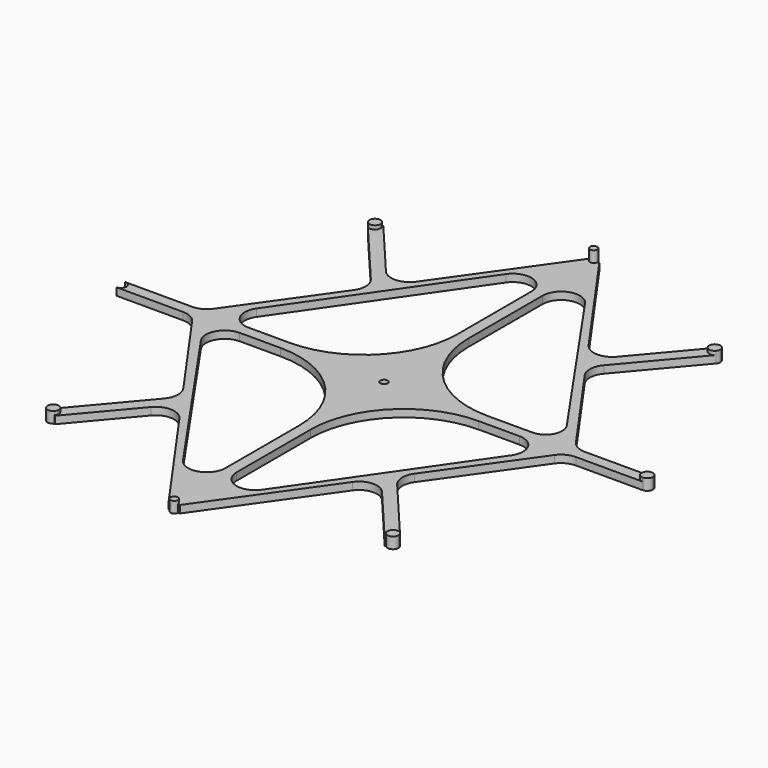
from build123d import *

# Parameters (mm, degrees)
F0_R     = 1
F1_DEPTH = 2
F2_DEPTH = 3
F3_DEPTH = 5


with BuildPart() as f1:
    # F0 (on Top) → F1 (new body)
    with BuildSketch(Plane.XY):
        with BuildLine():
            Line((1, -35.1), (1.5, -35.1))
            Line((1.5, -35.1), (23.193478, -4.3713))
            ThreePointArc((23.193478, -4.3713), (26.906428, -2.344127), (30.781196, -4.041655))
            Line((30.781196, -4.041655), (44.164128, -19.880392))
            Line((44.164128, -19.880392), (44.35536, -19.718811))
            ThreePointArc((44.35536, -19.718811), (44.533011, -17.604942), (46.64688, -17.782593))
            Line((46.64688, -17.782593), (31.206023, 0.491704))
            ThreePointArc((31.206023, 0.491704), (30.029934, 3.501716), (30.940547, 6.602383))
            Line((30.940547, 6.602383), (48.505924, 31.483649))
            ThreePointArc((48.505924, 31.483649), (50.290408, 33.039496), (52.590599, 33.6))
            Line((52.590599, 33.6), (70.5, 33.6))
            ThreePointArc((70.5, 33.6), (69, 35.1), (70.5, 36.6))
            Line((70.5, 36.6), (52.590599, 36.6))
            ThreePointArc((52.590599, 36.6), (50.290408, 37.160504), (48.505924, 38.716351))
            Line((48.505924, 38.716351), (30.940547, 63.597617))
            ThreePointArc((30.940547, 63.597617), (30.029934, 66.698284), (31.206023, 69.708296))
            Line((31.206023, 69.708296), (46.64688, 87.982593))
            ThreePointArc((46.64688, 87.982593), (44.533011, 87.804942), (44.35536, 89.918811))
            Line((44.35536, 89.918811), (44.164128, 90.080392))
            Line((44.164128, 90.080392), (30.948157, 74.439253))
            ThreePointArc((30.948157, 74.439253), (26.91194, 72.670995), (23.044283, 74.782634))
            Line((23.044283, 74.782634), (1.5, 105.3))
            Line((1.5, 105.3), (1, 105.3))
            ThreePointArc((1, 105.3), (0, 104.3), (-1, 105.3))
            Line((-1, 105.3), (-1.5, 105.3))
            Line((-1.5, 105.3), (-23.044283, 74.782634))
            ThreePointArc((-23.044283, 74.782634), (-26.91194, 72.670995), (-30.948157, 74.439253))
            Line((-30.948157, 74.439253), (-44.164128, 90.080392))
            Line((-44.164128, 90.080392), (-44.35536, 89.918811))
            ThreePointArc((-44.35536, 89.918811), (-44.092461, 89.466144), (-44.00112, 88.950702))
            ThreePointArc((-44.00112, 88.950702), (-44.985678, 87.542043), (-46.64688, 87.982593))
            Line((-46.64688, 87.982593), (-31.206023, 69.708296))
            ThreePointArc((-31.206023, 69.708296), (-30.029934, 66.698284), (-30.940547, 63.597617))
            Line((-30.940547, 63.597617), (-48.505924, 38.716351))
            ThreePointArc((-48.505924, 38.716351), (-50.290408, 37.160504), (-52.590599, 36.6))
            Line((-52.590599, 36.6), (-70.5, 36.6))
            ThreePointArc((-70.5, 36.6), (-69.43934, 36.16066), (-69, 35.1))
            ThreePointArc((-69, 35.1), (-69.43934, 34.03934), (-70.5, 33.6))
            Line((-70.5, 33.6), (-52.590599, 33.6))
            ThreePointArc((-52.590599, 33.6), (-50.290408, 33.039496), (-48.505924, 31.483649))
            Line((-48.505924, 31.483649), (-30.940547, 6.602383))
            ThreePointArc((-30.940547, 6.602383), (-30.029934, 3.501716), (-31.206023, 0.491704))
            Line((-31.206023, 0.491704), (-46.64688, -17.782593))
            ThreePointArc((-46.64688, -17.782593), (-44.985678, -17.342043), (-44.00112, -18.750702))
            ThreePointArc((-44.00112, -18.750702), (-44.092461, -19.266144), (-44.35536, -19.718811))
            Line((-44.35536, -19.718811), (-44.164128, -19.880392))
            Line((-44.164128, -19.880392), (-30.948157, -4.239253))
            ThreePointArc((-30.948157, -4.239253), (-26.91194, -2.470995), (-23.044283, -4.582634))
            Line((-23.044283, -4.582634), (-1.5, -35.1))
            Line((-1.5, -35.1), (-1, -35.1))
            ThreePointArc((-1, -35.1), (0, -34.1), (1, -35.1))
        make_face()
        with BuildLine():
            ThreePointArc((-26.5, 33.6), (-8.82233, 26.27767), (-1.5, 8.6))
            Line((-1.5, 8.6), (-1.5, -16.098123))
            ThreePointArc((-1.5, -16.098123), (-5.008784, -20.870573), (-10.61051, -18.944823))
            Line((-10.61051, -18.944823), (-41.565831, 25.753299))
            ThreePointArc((-41.565831, 25.753299), (-41.884401, 30.920183), (-37.455321, 33.6))
            Line((-37.455321, 33.6), (-26.5, 33.6))
        make_face(mode=Mode.SUBTRACT)
        with BuildLine():
            Line((1.5, -16.098123), (1.5, 8.6))
            ThreePointArc((1.5, 8.6), (8.82233, 26.27767), (26.5, 33.6))
            Line((26.5, 33.6), (37.455321, 33.6))
            ThreePointArc((37.455321, 33.6), (41.884401, 30.920183), (41.565831, 25.753299))
            Line((41.565831, 25.753299), (10.61051, -18.944823))
            ThreePointArc((10.61051, -18.944823), (5.008784, -20.870573), (1.5, -16.098123))
        make_face(mode=Mode.SUBTRACT)
        with BuildLine():
            Line((-1.5, 86.298123), (-1.5, 61.6))
            ThreePointArc((-1.5, 61.6), (-8.82233, 43.92233), (-26.5, 36.6))
            Line((-26.5, 36.6), (-37.455321, 36.6))
            ThreePointArc((-37.455321, 36.6), (-41.884401, 39.279817), (-41.565831, 44.446701))
            Line((-41.565831, 44.446701), (-10.61051, 89.144823))
            ThreePointArc((-10.61051, 89.144823), (-5.008784, 91.070573), (-1.5, 86.298123))
        make_face(mode=Mode.SUBTRACT)
        with Locations((0, 35.1)):
            Circle(F0_R, mode=Mode.SUBTRACT)
        with BuildLine():
            ThreePointArc((26.5, 36.6), (8.82233, 43.92233), (1.5, 61.6))
            Line((1.5, 61.6), (1.5, 86.298123))
            ThreePointArc((1.5, 86.298123), (5.008784, 91.070573), (10.61051, 89.144823))
            Line((10.61051, 89.144823), (42.190267, 43.545043))
            ThreePointArc((42.190267, 43.545043), (42.47223, 38.971882), (38.552092, 36.6))
            Line((38.552092, 36.6), (26.5, 36.6))
        make_face(mode=Mode.SUBTRACT)
    extrude(amount=F1_DEPTH)

    # F0 (on Top) → F2 (join)
    with BuildSketch(Plane.XY):
        with BuildLine():
            ThreePointArc((-44.35536, 89.918811), (-46.469229, 90.096461), (-46.64688, 87.982593))
            ThreePointArc((-46.64688, 87.982593), (-44.985678, 87.542043), (-44.00112, 88.950702))
            ThreePointArc((-44.00112, 88.950702), (-44.092461, 89.466144), (-44.35536, 89.918811))
        make_face()
        with BuildLine():
            ThreePointArc((-1, 105.3), (0, 104.3), (1, 105.3))
            ThreePointArc((1, 105.3), (0, 106.3), (-1, 105.3))
        make_face()
        with BuildLine():
            ThreePointArc((44.35536, 89.918811), (44.533011, 87.804942), (46.64688, 87.982593))
            ThreePointArc((46.64688, 87.982593), (46.909779, 88.43526), (47.00112, 88.950702))
            ThreePointArc((47.00112, 88.950702), (46.016562, 90.359361), (44.35536, 89.918811))
        make_face()
        with BuildLine():
            ThreePointArc((70.5, 36.6), (69, 35.1), (70.5, 33.6))
            ThreePointArc((70.5, 33.6), (71.56066, 34.03934), (72, 35.1))
            ThreePointArc((72, 35.1), (71.56066, 36.16066), (70.5, 36.6))
        make_face()
        with BuildLine():
            ThreePointArc((46.64688, -17.782593), (44.533011, -17.604942), (44.35536, -19.718811))
            ThreePointArc((44.35536, -19.718811), (46.016562, -20.159361), (47.00112, -18.750702))
            ThreePointArc((47.00112, -18.750702), (46.909779, -18.23526), (46.64688, -17.782593))
        make_face()
        with BuildLine():
            ThreePointArc((-1, -35.1), (0, -36.1), (1, -35.1))
            ThreePointArc((1, -35.1), (0, -34.1), (-1, -35.1))
        make_face()
        with BuildLine():
            ThreePointArc((-46.64688, -17.782593), (-46.469229, -19.896461), (-44.35536, -19.718811))
            ThreePointArc((-44.35536, -19.718811), (-44.092461, -19.266144), (-44.00112, -18.750702))
            ThreePointArc((-44.00112, -18.750702), (-44.985678, -17.342043), (-46.64688, -17.782593))
        make_face()
    extrude(amount=F2_DEPTH)

    # F0 (on Top) → F3 (join)
    with BuildSketch(Plane.XY):
        with BuildLine():
            ThreePointArc((-1, 105.3), (0, 104.3), (1, 105.3))
            ThreePointArc((1, 105.3), (0, 106.3), (-1, 105.3))
        make_face()
    extrude(amount=F3_DEPTH)


solid = f1.part
